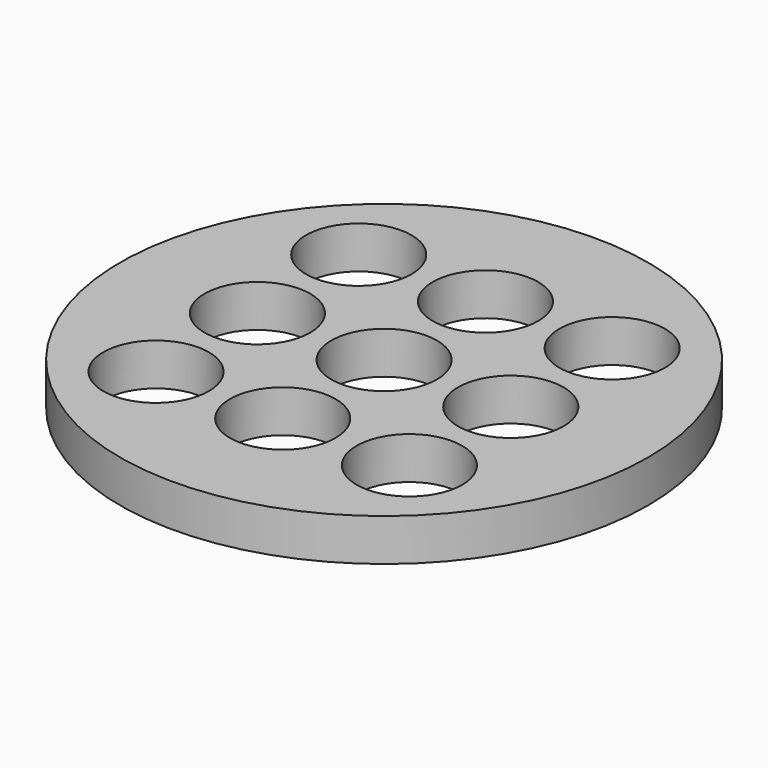
from build123d import *

# Parameters (mm, degrees)
F0_R     = 62.5
F0_R_2   = 12.5
F1_DEPTH = 10


with BuildPart() as f1:
    # F0 (on Top) → F1 (new body)
    with BuildSketch(Plane.XY):
        Circle(F0_R)
        with Locations((-30, -30)):
            Circle(F0_R_2, mode=Mode.SUBTRACT)
        with Locations((0, -30)):
            Circle(F0_R_2, mode=Mode.SUBTRACT)
        with Locations((30, -30)):
            Circle(F0_R_2, mode=Mode.SUBTRACT)
        with Locations((-30, 0)):
            Circle(F0_R_2, mode=Mode.SUBTRACT)
        with Locations((-30, 30)):
            Circle(F0_R_2, mode=Mode.SUBTRACT)
        Circle(F0_R_2, mode=Mode.SUBTRACT)
        with Locations((30, 0)):
            Circle(F0_R_2, mode=Mode.SUBTRACT)
        with Locations((0, 30)):
            Circle(F0_R_2, mode=Mode.SUBTRACT)
        with Locations((30, 30)):
            Circle(F0_R_2, mode=Mode.SUBTRACT)
    extrude(amount=F1_DEPTH)


solid = f1.part
